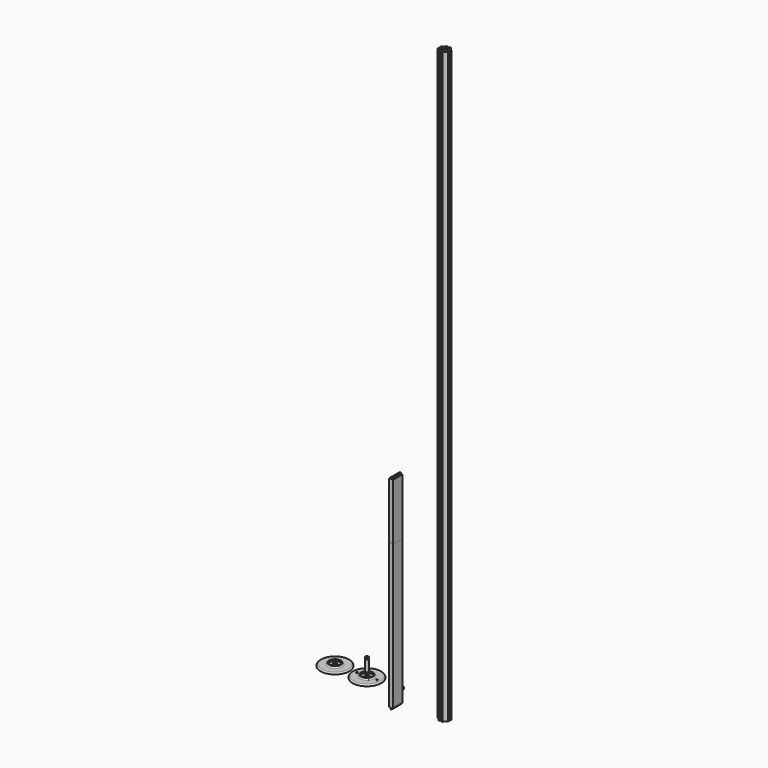
from build123d import *

# Parameters (mm, degrees)
F1_DEPTH       = 2540
F2_R           = 62.23
F3_DEPTH       = 6.35
F4_R           = 25.4
F5_DEPTH       = 6.35
F6_R           = 5.08
F7_R           = 22.8876862752
F8_DEPTH       = 6.35
F9_R           = 9.525
F10_DEPTH      = 2.54
F11_R          = 2.4595244757
F12_DEPTH      = 25.4
F14_R          = 4.0874443812
F14_R_2        = 3.175
F15_DEPTH      = 25.4
F16_R          = 22.8854
F17_DEPTH      = 6.35
F19_DEPTH      = 6.35
F20_R          = 4.7625
F21_DEPTH      = 69.85
F22_R          = 4.7625
F23_DEPTH      = 2540.001
F24_R          = 2.4595244757
F25_DEPTH      = 25.4
F26_R          = 6.35
F27_DEPTH      = 47.625
F28_R          = 3.175
F29_DEPTH      = 3.175
F30_R          = 6.35
F31_DEPTH      = 3.175
F32_W          = 15.875
F32_H          = 50.8
F33_DEPTH      = 866.775
F34_W          = 4.7625
F34_H          = 50.8
F35_DEPTH      = 6.35
F35_DEPTH_BACK = 873.125
F37_W          = 15.875
F37_H          = 50.8
F38_DEPTH      = 622.3
F39_W          = 4.7625
F39_H          = 50.8
F40_DEPTH      = 6.35
F40_DEPTH_BACK = 628.65


with BuildPart() as f1:
    # F0 (on Top) → F1 (new body)
    with BuildSketch(Plane.XY):
        with BuildLine():
            Line((19.84375, 0), (12.7, 0))
            ThreePointArc((12.7, 0), (8.9802561211, -8.9802561211), (0, -12.7))
            Line((0, -12.7), (0, -14.2875))
            ThreePointArc((0, -14.2875), (0.7949815875, -14.2653657691), (1.5875, -14.1990316571))
            ThreePointArc((1.5875, -14.1990316571), (4.0300266512, -13.7073535535), (6.35, -12.7988341754))
            ThreePointArc((6.35, -12.7988341754), (10.1027881362, -10.1027881362), (12.7988341754, -6.35))
            ThreePointArc((12.7988341754, -6.35), (13.7073535535, -4.0300266512), (14.1990316571, -1.5875))
            Line((14.1990316571, -1.5875), (19.84375, -1.5875))
            Line((19.84375, -1.5875), (19.84375, 0))
        make_face()
        with BuildLine():
            ThreePointArc((1.5875, -14.1990316571), (0.7949815875, -14.2653657691), (0, -14.2875))
            Line((0, -14.2875), (0, -19.84375))
            Line((0, -19.84375), (1.5875, -19.84375))
            Line((1.5875, -19.84375), (1.5875, -14.1990316571))
        make_face()
        with BuildLine():
            Line((19.84375, -6.35), (12.7988341754, -6.35))
            ThreePointArc((12.7988341754, -6.35), (10.1027881362, -10.1027881362), (6.35, -12.7988341754))
            Line((6.35, -12.7988341754), (6.35, -19.84375))
            Line((6.35, -19.84375), (12.7, -19.84375))
            Line((12.7, -19.84375), (12.7, -24.60625))
            Line((12.7, -24.60625), (6.35, -24.60625))
            Line((6.35, -24.60625), (6.35, -31.6511658246))
            ThreePointArc((6.35, -31.6511658246), (10.1027881362, -34.3472118638), (12.7988341754, -38.1))
            Line((12.7988341754, -38.1), (19.84375, -38.1))
            Line((19.84375, -38.1), (19.84375, -31.75))
            Line((19.84375, -31.75), (24.60625, -31.75))
            Line((24.60625, -31.75), (24.60625, -38.1))
            Line((24.60625, -38.1), (31.6511658246, -38.1))
            ThreePointArc((31.6511658246, -38.1), (34.3472118638, -34.3472118638), (38.1, -31.6511658246))
            Line((38.1, -31.6511658246), (38.1, -24.60625))
            Line((38.1, -24.60625), (31.75, -24.60625))
            Line((31.75, -24.60625), (31.75, -19.84375))
            Line((31.75, -19.84375), (38.1, -19.84375))
            Line((38.1, -19.84375), (38.1, -12.7988341754))
            ThreePointArc((38.1, -12.7988341754), (34.3472118638, -10.1027881362), (31.6511658246, -6.35))
            Line((31.6511658246, -6.35), (24.60625, -6.35))
            Line((24.60625, -6.35), (24.60625, -12.7))
            Line((24.60625, -12.7), (19.84375, -12.7))
            Line((19.84375, -12.7), (19.84375, -6.35))
        make_face()
        with BuildLine():
            ThreePointArc((30.2509683429, -1.5875), (30.7426464465, -4.0300266512), (31.6511658246, -6.35))
            ThreePointArc((31.6511658246, -6.35), (34.3472118638, -10.1027881362), (38.1, -12.7988341754))
            ThreePointArc((38.1, -12.7988341754), (40.4199733488, -13.7073535535), (42.8625, -14.1990316571))
            Line((42.8625, -14.1990316571), (42.8625, -19.84375))
            Line((42.8625, -19.84375), (44.45, -19.84375))
            Line((44.45, -19.84375), (44.45, -12.7))
            ThreePointArc((44.45, -12.7), (35.4697438789, -8.9802561211), (31.75, 0))
            Line((31.75, 0), (24.60625, 0))
            Line((24.60625, 0), (24.60625, -1.5875))
            Line((24.60625, -1.5875), (30.2509683429, -1.5875))
        make_face()
        with BuildLine():
            ThreePointArc((12.7988341754, -38.1), (10.1027881362, -34.3472118638), (6.35, -31.6511658246))
            ThreePointArc((6.35, -31.6511658246), (4.0300266512, -30.7426464465), (1.5875, -30.2509683429))
            ThreePointArc((1.5875, -30.2509683429), (0.7949815875, -30.1846342309), (0, -30.1625))
            Line((0, -30.1625), (0, -31.75))
            ThreePointArc((0, -31.75), (8.9802561211, -35.4697438789), (12.7, -44.45))
            Line((12.7, -44.45), (19.84375, -44.45))
            Line((19.84375, -44.45), (19.84375, -42.8625))
            Line((19.84375, -42.8625), (14.1990316571, -42.8625))
            ThreePointArc((14.1990316571, -42.8625), (13.7073535535, -40.4199733488), (12.7988341754, -38.1))
        make_face()
        with BuildLine():
            ThreePointArc((0, -30.1625), (0.7949815875, -30.1846342309), (1.5875, -30.2509683429))
            Line((1.5875, -30.2509683429), (1.5875, -24.60625))
            Line((1.5875, -24.60625), (0, -24.60625))
            Line((0, -24.60625), (0, -30.1625))
        make_face()
        with BuildLine():
            ThreePointArc((42.8625, -30.2509683429), (40.4199733488, -30.7426464465), (38.1, -31.6511658246))
            ThreePointArc((38.1, -31.6511658246), (34.3472118638, -34.3472118638), (31.6511658246, -38.1))
            ThreePointArc((31.6511658246, -38.1), (30.7426464465, -40.4199733488), (30.2509683429, -42.8625))
            Line((30.2509683429, -42.8625), (24.60625, -42.8625))
            Line((24.60625, -42.8625), (24.60625, -44.45))
            Line((24.60625, -44.45), (31.75, -44.45))
            ThreePointArc((31.75, -44.45), (35.4697438789, -35.4697438789), (44.45, -31.75))
            Line((44.45, -31.75), (44.45, -24.60625))
            Line((44.45, -24.60625), (42.8625, -24.60625))
            Line((42.8625, -24.60625), (42.8625, -30.2509683429))
        make_face()
    extrude(amount=F1_DEPTH)

    # F22 (on face) → F23 (cut, through all)
    with BuildSketch(Plane(origin=(0, 0, 0), x_dir=(1, 0, 0), z_dir=(0, 0, -1))):
        with Locations((22.225, 22.225)):
            Circle(F22_R)
    extrude(amount=-F23_DEPTH, mode=Mode.SUBTRACT)


with BuildPart() as f3:
    # F2 (on Top) → F3 (new body)
    with BuildSketch(Plane.XY):
        with Locations((-505.905687809, 47.3490320146)):
            Circle(F2_R)
    extrude(amount=F3_DEPTH)

    # F4 (on face) → F5 (join)
    with BuildSketch(Plane.XY.offset(6.35)):
        with Locations((-505.905687809, 47.3490320146)):
            Circle(F4_R)
    extrude(amount=F5_DEPTH)

    # F6
    f6_edges = [f3.edges().sort_by_distance(p)[0] for p in [
        (-531.305688, 47.349032, 6.35),
        (-568.135688, 47.349032, 6.35),
    ]]
    fillet(f6_edges, radius=F6_R)

    # F7 (on face) → F8 (cut)
    with BuildSketch(Plane.XY.offset(12.7)):
        with Locations((-505.905687809, 47.3490320146)):
            Circle(F7_R)
    extrude(amount=-F8_DEPTH, mode=Mode.SUBTRACT)

    # F9 (on face) → F10 (cut)
    with BuildSketch(Plane.XY.offset(6.35)):
        with Locations((-505.905687809, 47.3490320146)):
            Circle(F9_R)
    extrude(amount=-F10_DEPTH, mode=Mode.SUBTRACT)

    # F11 (on face) → F12 (cut)
    with BuildSketch(Plane.XY.offset(3.81)):
        with Locations((-505.905687809, 47.3490320146)):
            Circle(F11_R)
    extrude(amount=-F12_DEPTH, mode=Mode.SUBTRACT)


with BuildPart() as f13_1:
    # F13: copy of F3
    add(f3.part.moved(Location((137.922, 0, 0))))

    # F14 (on face) → F15 (cut)
    with BuildSketch(Plane.XY.offset(6.35)):
        with Locations((-411.163687809, 47.3490320146)):
            Circle(F14_R)
        with Locations((-324.803687809, 47.3490320146)):
            Circle(F14_R_2)
    extrude(amount=-F15_DEPTH, mode=Mode.SUBTRACT)

    # F24 (on face) → F25 (join)
    with BuildSketch(Plane(origin=(0, 0, 0), x_dir=(1, 0, 0), z_dir=(0, 0, -1))):
        with Locations((-367.983687809, -47.3490320146)):
            Circle(F24_R)
    extrude(amount=-F25_DEPTH)

    # F26 (on face) → F27 (join)
    with BuildSketch(Plane.XY.offset(25.4)):
        with Locations((-367.983687809, 47.3490320146)):
            Circle(F26_R)
    extrude(amount=F27_DEPTH)

    # F28 (on face) → F29 (join)
    with BuildSketch(Plane.XY.offset(73.025)):
        with Locations((-367.983687809, 47.3490320146)):
            Circle(F28_R)
    extrude(amount=F29_DEPTH)

    # F30 (on face) → F31 (join)
    with BuildSketch(Plane.XY.offset(76.2)):
        with Locations((-367.983687809, 47.3490320146)):
            Circle(F30_R)
    extrude(amount=F31_DEPTH)


with BuildPart() as f17:
    # F16 (on Top) → F17 (new body)
    with BuildSketch(Plane.XY):
        with Locations((-238.7858778238, 47.5498624146)):
            Circle(F16_R)
    extrude(amount=F17_DEPTH)

    # F18 (on face) → F19 (join)
    with BuildSketch(Plane.XY.offset(6.35)):
        with BuildLine():
            Line((-247.2082940829, 57.0552768905), (-247.2082940829, 38.0444479387))
            ThreePointArc((-247.2082940829, 38.0444479387), (-238.7858778238, 34.8498624146), (-230.3634615647, 38.0444479387))
            Line((-230.3634615647, 38.0444479387), (-230.3634615647, 57.0552768905))
            ThreePointArc((-230.3634615647, 57.0552768905), (-238.7858778238, 60.2498624146), (-247.2082940829, 57.0552768905))
        make_face()
    extrude(amount=F19_DEPTH)

    # F20 (on face) → F21 (join)
    with BuildSketch(Plane.XY.offset(12.7)):
        with Locations((-238.7858778238, 47.5498624146)):
            Circle(F20_R)
    extrude(amount=F21_DEPTH)


with BuildPart() as f33:
    # F32 (on Top) → F33 (new body)
    with BuildSketch(Plane.XY):
        with Locations((-168.7098385096, -46.8645968199)):
            Rectangle(F32_W, F32_H)
    extrude(amount=F33_DEPTH)

    # F34 (on face) → F35 (join, two sides)
    with BuildSketch(Plane.XY.offset(866.775)) as f35_sk:
        with Locations((-168.7098385096, -46.8645968199)):
            Rectangle(F34_W, F34_H)
    extrude(amount=F35_DEPTH)
    extrude(f35_sk.sketch, amount=-F35_DEPTH_BACK)


with BuildPart() as f38:
    # F37 (on Top) → F38 (new body)
    with BuildSketch(Plane.XY):
        with Locations((-168.7098385096, -46.8645968199)):
            Rectangle(F37_W, F37_H)
    extrude(amount=F38_DEPTH)

    # F39 (on face) → F40 (join, two sides)
    with BuildSketch(Plane.XY.offset(622.3)) as f40_sk:
        with Locations((-168.7098385096, -46.8645968199)):
            Rectangle(F39_W, F39_H)
    extrude(amount=F40_DEPTH)
    extrude(f40_sk.sketch, amount=-F40_DEPTH_BACK)


solid = Compound([f1.part, f3.part, f13_1.part, f17.part, f33.part, f38.part])
